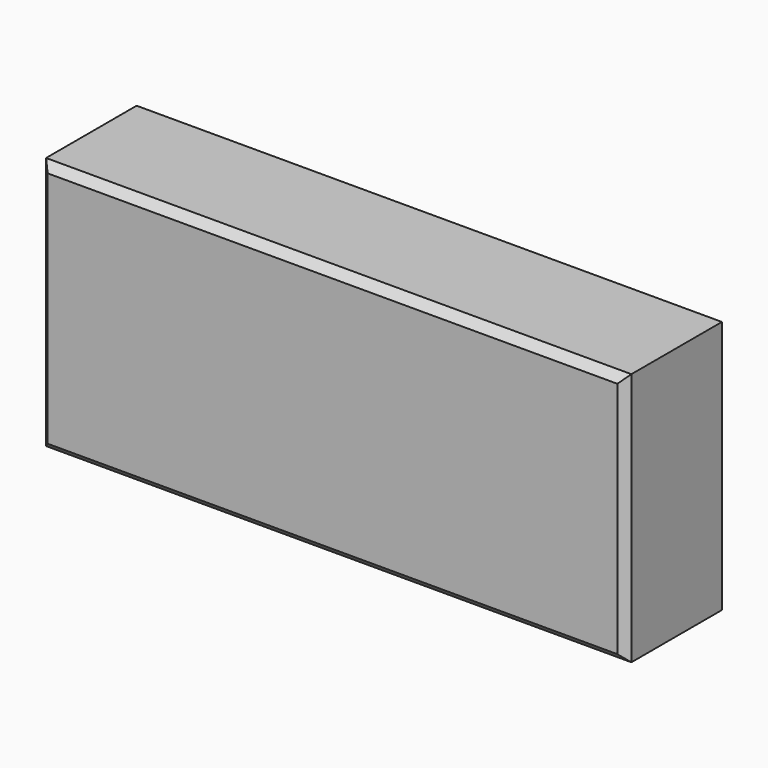
from build123d import *

# Parameters (mm, degrees)
F0_W     = 150
F0_H     = 65
F1_DEPTH = 16.5
F2_SIZE  = 2


with BuildPart() as f1:
    # F0 (on Front) → F1 (new body, symmetric)
    with BuildSketch(Plane.XZ):
        Rectangle(F0_W, F0_H)
    extrude(amount=F1_DEPTH, both=True)

    # F2
    f2_edges = [f1.edges().sort_by_distance(p)[0] for p in [
        (0, -16.5, -32.5),
        (75, -16.5, 0),
        (0, -16.5, 32.5),
        (-75, -16.5, 0),
        (0, 16.5, -32.5),
        (75, 16.5, 0),
        (0, 16.5, 32.5),
        (-75, 16.5, 0),
    ]]
    chamfer(f2_edges, length=F2_SIZE)


solid = f1.part
